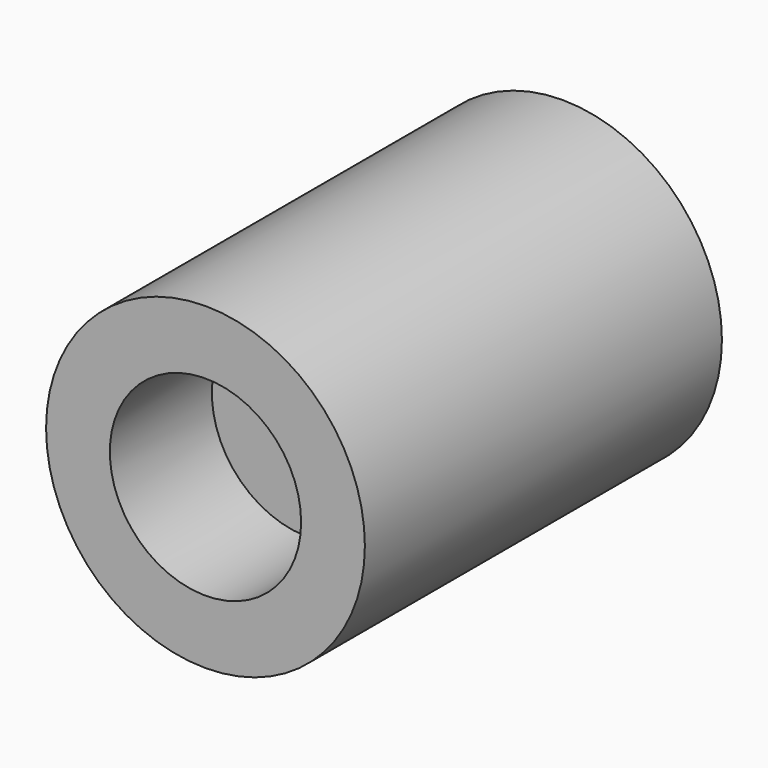
from build123d import *

# Parameters (mm, degrees)
F0_R     = 50
F0_R_2   = 30
F0_R_3   = 10
F1_DEPTH = 140
F2_DEPTH = 120
F3_DEPTH = 40


with BuildPart() as f1:
    # F0 (on Front) → F1 (new body)
    with BuildSketch(Plane.XZ):
        Circle(F0_R)
        Circle(F0_R_2, mode=Mode.SUBTRACT)
        Circle(F0_R_2)
        Circle(F0_R_3, mode=Mode.SUBTRACT)
        Circle(F0_R_3)
    extrude(amount=-F1_DEPTH)

    # F0 (on Front) → F2 (cut)
    with BuildSketch(Plane.XZ):
        Circle(F0_R_3)
    extrude(amount=-F2_DEPTH, mode=Mode.SUBTRACT)

    # F0 (on Front) → F3 (cut)
    with BuildSketch(Plane.XZ):
        Circle(F0_R_2)
        Circle(F0_R_3, mode=Mode.SUBTRACT)
    extrude(amount=-F3_DEPTH, mode=Mode.SUBTRACT)


solid = f1.part
